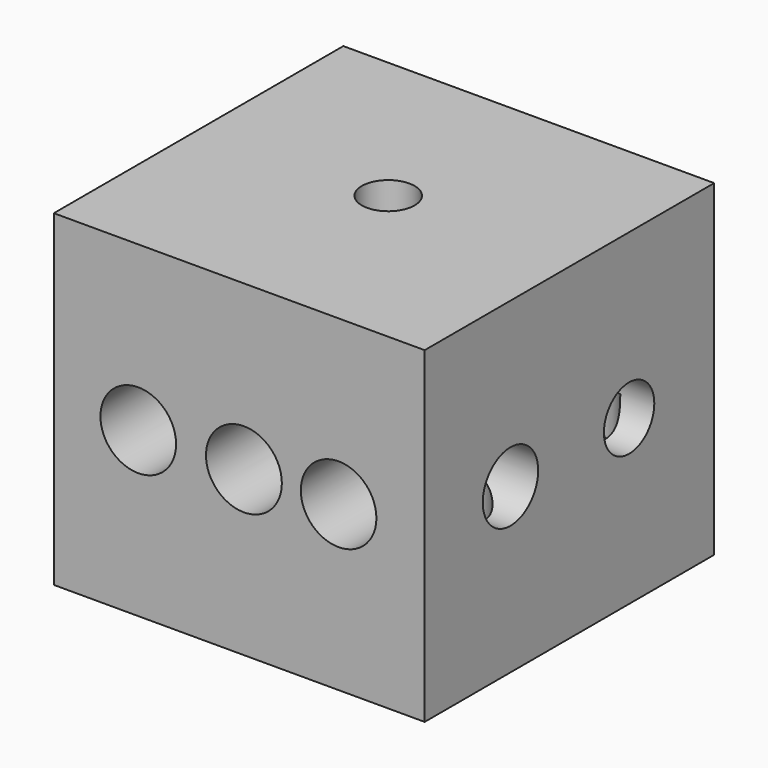
from build123d import *

# Parameters (mm, degrees)
F0_W      = 57.566628
F0_H      = 56.171838
F1_DEPTH  = 25.4
F1_FACE_W = 57.566628
F1_FACE_H = 56.171838
F2_DEPTH  = 25.4
F3_R      = 4.096993
F4_DEPTH  = 44.9
F5_R      = 5.374985
F5_R_2    = 4.889232
F6_DEPTH  = 25
F7_R      = 5.872261
F7_R_2    = 5.867019
F7_R_3    = 5.889868
F8_DEPTH  = 25
F9_R      = 5.753081
F9_R_2    = 5.389651
F9_R_3    = 5.154789
F9_R_4    = 5.090939
F10_DEPTH = 25
F11_R     = 5.612466
F11_R_2   = 5.687163
F11_R_3   = 6.049702
F11_R_4   = 4.349218
F11_R_5   = 5.111797
F12_DEPTH = 25
F13_R     = 2.537299
F13_R_2   = 3.189993
F13_R_3   = 4.744666
F13_R_4   = 3.015973
F13_R_5   = 3.645702
F13_R_6   = 5.80742
F14_DEPTH = 25


with BuildPart() as f1:
    # F0 (on Top) → F1 (new body)
    with BuildSketch(Plane.XY):
        with Locations((28.783314, 28.085919)):
            Rectangle(F0_W, F0_H)
    extrude(amount=F1_DEPTH)

    # F1_face (on face) → F2 (join)
    with BuildSketch(Plane(origin=(28.783314, 28.085919, 0), x_dir=(1, 0, 0), z_dir=(0, 0, -1))):
        Rectangle(F1_FACE_W, F1_FACE_H)
    extrude(amount=F2_DEPTH)

    # F3 (on Top) → F4 (cut)
    with BuildSketch(Plane.XY):
        with Locations((28.783314, 28.910112)):
            Circle(F3_R)
    extrude(amount=F4_DEPTH, mode=Mode.SUBTRACT)

    # F5 (on face) → F6 (cut)
    with BuildSketch(Plane.YZ.offset(57.566628)):
        with Locations((16.648166, 0)):
            Circle(F5_R)
        with Locations((39.664548, 0)):
            Circle(F5_R_2)
    extrude(amount=-F6_DEPTH, mode=Mode.SUBTRACT)

    # F7 (on face) → F8 (cut)
    with BuildSketch(Plane.XZ):
        with Locations((13.105985, 0)):
            Circle(F7_R)
        with Locations((44.204224, 0)):
            Circle(F7_R_2)
        with Locations((29.506518, 0)):
            Circle(F7_R_3)
    extrude(amount=-F8_DEPTH, mode=Mode.SUBTRACT)

    # F9 (on face) → F10 (cut)
    with BuildSketch(Plane(origin=(0, 56.171838, 0), x_dir=(-1, 0, 0), z_dir=(0, 1, 0))):
        with Locations((-45.17829, 12.729795)):
            Circle(F9_R)
        with Locations((-14.601823, 12.230587)):
            Circle(F9_R_2)
        with Locations((-43.680668, -10.732964)):
            Circle(F9_R_3)
        with Locations((-15.225832, -10.982568)):
            Circle(F9_R_4)
    extrude(amount=-F10_DEPTH, mode=Mode.SUBTRACT)

    # F11 (on face) → F12 (cut)
    with BuildSketch(Plane(origin=(0, 0, 0), x_dir=(0, -1, 0), z_dir=(-1, 0, 0))):
        with Locations((-27.390288, 0)):
            Circle(F11_R)
        with Locations((-13.832552, 14.799259)):
            Circle(F11_R_2)
        with Locations((-44.429056, 14.477227)):
            Circle(F11_R_3)
        with Locations((-43.238178, -15.129388)):
            Circle(F11_R_4)
        with Locations((-14.107371, -12.045765)):
            Circle(F11_R_5)
    extrude(amount=-F12_DEPTH, mode=Mode.SUBTRACT)

    # F13 (on face) → F14 (cut)
    with BuildSketch(Plane(origin=(0, 0, -25.4), x_dir=(1, 0, 0), z_dir=(0, 0, -1))):
        with Locations((16.138667, -41.479081)):
            Circle(F13_R)
        with Locations((30.260602, -41.623194)):
            Circle(F13_R_2)
        with Locations((48.417371, -41.80849)):
            Circle(F13_R_3)
        with Locations((12.335394, -14.712255)):
            Circle(F13_R_4)
        with Locations((28.928151, -14.831157)):
            Circle(F13_R_5)
        with Locations((48.399318, -15.332443)):
            Circle(F13_R_6)
    extrude(amount=-F14_DEPTH, mode=Mode.SUBTRACT)


solid = f1.part
